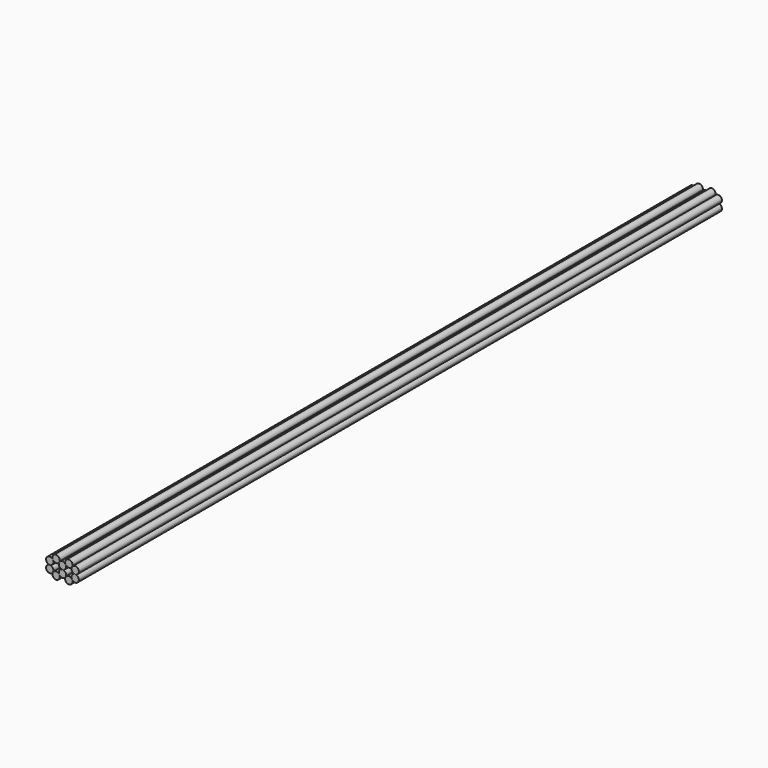
from build123d import *

# Parameters (mm, degrees)
F1_DEPTH = 640.08


with BuildPart() as f1:
    # F0 (on Front) → F1 (new body)
    with BuildSketch(Plane.XZ):
        with BuildLine():
            ThreePointArc((7.588948, -7.302519), (5.059299, -5.842037), (2.52965, -7.302519))
            ThreePointArc((2.52965, -7.302519), (4.303278, -11.584504), (7.980299, -8.763037))
            ThreePointArc((7.980299, -8.763037), (7.880766, -8.007016), (7.588948, -7.302519))
        make_face()
        with BuildLine():
            ThreePointArc((0, -2.921), (2.065459, -2.065459), (2.921, 0))
            ThreePointArc((2.921, 0), (2.821467, 0.756021), (2.52965, 1.460519))
            ThreePointArc((2.52965, 1.460519), (0, 2.921), (-2.529649, 1.460519))
            ThreePointArc((-2.529649, 1.460519), (-2.529666, -1.460491), (0, -2.921))
        make_face()
        with BuildLine():
            ThreePointArc((13.039598, -5.842), (12.184057, -3.776541), (10.118598, -2.921))
            ThreePointArc((10.118598, -2.921), (7.588932, -4.381509), (7.588948, -7.302519))
            ThreePointArc((7.588948, -7.302519), (10.874619, -8.663467), (13.039598, -5.842))
        make_face()
        with BuildLine():
            ThreePointArc((-2.138299, -8.763037), (-2.237832, -8.007016), (-2.529649, -7.302519))
            ThreePointArc((-2.529649, -7.302519), (-5.059299, -5.842037), (-7.588949, -7.302519))
            ThreePointArc((-7.588949, -7.302519), (-5.81532, -11.584504), (-2.138299, -8.763037))
        make_face()
        with BuildLine():
            ThreePointArc((13.039598, 0), (10.874619, 2.821467), (7.588948, 1.460519))
            ThreePointArc((7.588948, 1.460519), (7.588932, -1.460491), (10.118598, -2.921))
            ThreePointArc((10.118598, -2.921), (12.184057, -2.065459), (13.039598, 0))
        make_face()
        with BuildLine():
            ThreePointArc((7.980299, 2.921037), (4.303278, 5.742504), (2.52965, 1.460519))
            ThreePointArc((2.52965, 1.460519), (5.059299, 3.7e-05), (7.588948, 1.460519))
            ThreePointArc((7.588948, 1.460519), (7.880766, 2.165016), (7.980299, 2.921037))
        make_face()
        with BuildLine():
            ThreePointArc((-7.588949, 1.460519), (-5.059299, 3.7e-05), (-2.529649, 1.460519))
            ThreePointArc((-2.529649, 1.460519), (-2.237832, 2.165016), (-2.138299, 2.921037))
            ThreePointArc((-2.138299, 2.921037), (-5.81532, 5.742504), (-7.588949, 1.460519))
        make_face()
        with BuildLine():
            ThreePointArc((-7.197598, 0), (-7.297131, 0.756021), (-7.588949, 1.460519))
            ThreePointArc((-7.588949, 1.460519), (-12.648264, 1.460491), (-10.118598, -2.921))
            ThreePointArc((-10.118598, -2.921), (-8.053139, -2.065459), (-7.197598, 0))
        make_face()
        with BuildLine():
            ThreePointArc((-10.118598, -2.921), (-12.648264, -7.302491), (-7.588949, -7.302519))
            ThreePointArc((-7.588949, -7.302519), (-7.297131, -6.598021), (-7.197598, -5.842))
            ThreePointArc((-7.197598, -5.842), (-8.053139, -3.776541), (-10.118598, -2.921))
        make_face()
        with BuildLine():
            ThreePointArc((2.921, -5.842), (2.065459, -3.776541), (0, -2.921))
            ThreePointArc((0, -2.921), (-2.529666, -4.381509), (-2.529649, -7.302519))
            ThreePointArc((-2.529649, -7.302519), (0, -8.763), (2.52965, -7.302519))
            ThreePointArc((2.52965, -7.302519), (2.821467, -6.598021), (2.921, -5.842))
        make_face()
    extrude(amount=F1_DEPTH)


solid = f1.part
